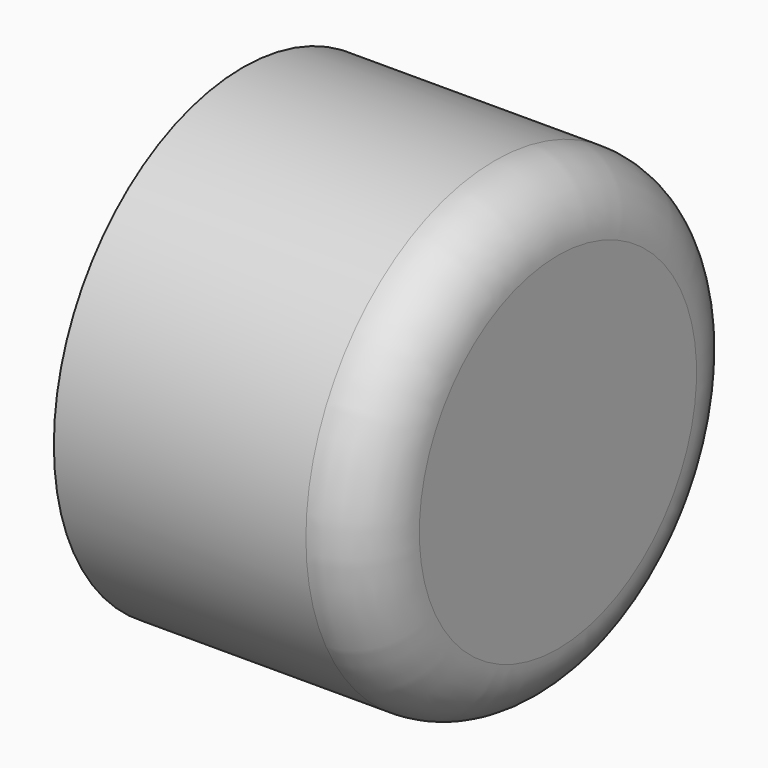
from build123d import *

# Parameters (mm, degrees)
F2_SIZE = 0.508
F3_R    = 2.54


with BuildPart() as f1:
    # F0 (on Front) → F1 (revolve)
    with BuildSketch(Plane.XZ):
        Polygon((0, 5.55625), (0, 4), (6.35, 4), (6.35, 0), (12.7, 0), (12.7, 9.525), (0, 9.525), (0, 7.14375), (1.397, 7.14375), (1.397, 5.55625), align=None)
    revolve(axis=Axis((9.525, 0, 0), (-1, 0, 0)))

    # F2
    f2_edges = [f1.edges().sort_by_distance(p)[0] for p in [
        (0, 0, -4),
    ]]
    chamfer(f2_edges, length=F2_SIZE)

    # F3
    f3_edges = [f1.edges().sort_by_distance(p)[0] for p in [
        (12.7, 0, -9.525),
    ]]
    fillet(f3_edges, radius=F3_R)


solid = f1.part
